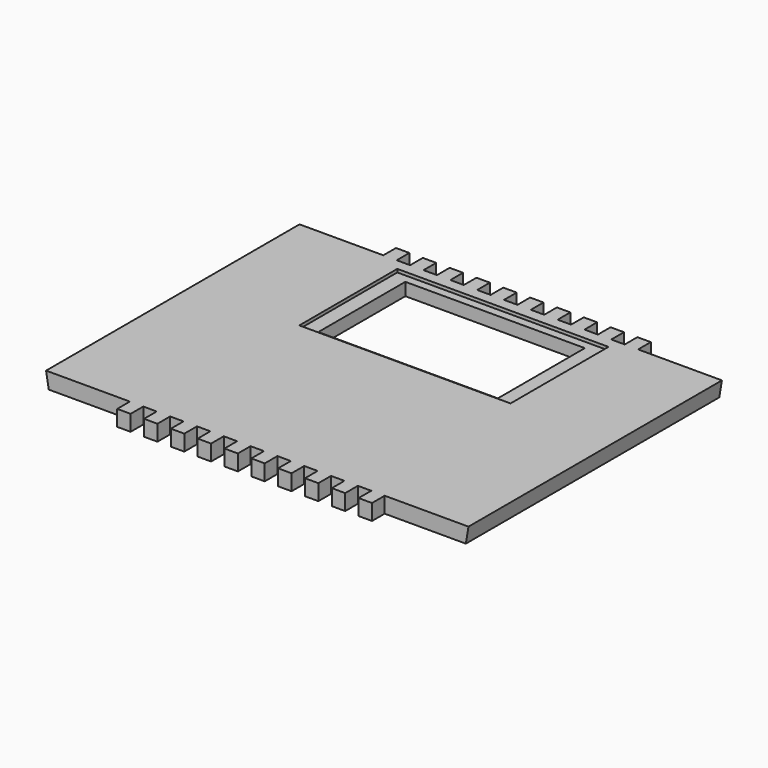
from build123d import *

# Parameters (mm, degrees)
F0_W     = 12.7
F0_H     = 15
F1_DEPTH = 15
F3_DEPTH = 315.001
F5_DEPTH = 315.001
F6_W     = 170
F6_H     = 103
F7_DEPTH = 15
F8_W     = 200
F8_H     = 116
F8_W_2   = 170
F8_H_2   = 103
F9_DEPTH = 3


with BuildPart() as f1:
    # F0 (on Top) → F1 (new body)
    with BuildSketch(Plane.XY):
        Polygon((120.65, -150), (200, -150), (200, 150), (120.65, 150), (107.95, 150), (95.25, 150), (82.55, 150), (69.85, 150), (57.15, 150), (44.45, 150), (31.75, 150), (19.05, 150), (6.35, 150), (0, 150), (-6.35, 150), (-19.05, 150), (-31.75, 150), (-44.45, 150), (-57.15, 150), (-69.85, 150), (-82.55, 150), (-95.25, 150), (-107.95, 150), (-120.65, 150), (-200, 150), (-200, -150), (-120.65, -150), (-107.95, -150), (-95.25, -150), (-82.55, -150), (-69.85, -150), (-57.15, -150), (-44.45, -150), (-31.75, -150), (-19.05, -150), (-6.35, -150), (0, -150), (6.35, -150), (19.05, -150), (31.75, -150), (44.45, -150), (57.15, -150), (69.85, -150), (82.55, -150), (95.25, -150), (107.95, -150), align=None)
        with Locations((-38.1, -157.5)):
            Rectangle(F0_W, F0_H)
        with Locations((114.3, 157.5)):
            Rectangle(F0_W, F0_H)
        with Locations((-114.3, -157.5)):
            Rectangle(F0_W, F0_H)
        with Locations((114.3, -157.5)):
            Rectangle(F0_W, F0_H)
        with Locations((12.7, -157.5)):
            Rectangle(F0_W, F0_H)
        with Locations((63.5, -157.5)):
            Rectangle(F0_W, F0_H)
        with Locations((-63.5, -157.5)):
            Rectangle(F0_W, F0_H)
        with Locations((-63.5, 157.5)):
            Rectangle(F0_W, F0_H)
        with Locations((12.7, 157.5)):
            Rectangle(F0_W, F0_H)
        with Locations((-88.9, 157.5)):
            Rectangle(F0_W, F0_H)
        with Locations((-88.9, -157.5)):
            Rectangle(F0_W, F0_H)
        with Locations((38.1, 157.5)):
            Rectangle(F0_W, F0_H)
        with Locations((88.9, -157.5)):
            Rectangle(F0_W, F0_H)
        with Locations((38.1, -157.5)):
            Rectangle(F0_W, F0_H)
        with Locations((-38.1, 157.5)):
            Rectangle(F0_W, F0_H)
        with Locations((-114.3, 157.5)):
            Rectangle(F0_W, F0_H)
        with Locations((88.9, 157.5)):
            Rectangle(F0_W, F0_H)
        with Locations((63.5, 157.5)):
            Rectangle(F0_W, F0_H)
        with Locations((-12.7, 157.5)):
            Rectangle(F0_W, F0_H)
        with Locations((-12.7, -157.5)):
            Rectangle(F0_W, F0_H)
    extrude(amount=F1_DEPTH)

    # F2 (on face) → F3 (cut, through all)
    with BuildSketch(Plane.XZ.offset(150)):
        Polygon((-200, 0), (-197.500259, 0), (-200, 15), align=None)
    extrude(amount=-F3_DEPTH, mode=Mode.SUBTRACT)

    # F4 (on face) → F5 (cut, through all)
    with BuildSketch(Plane.XZ.offset(150)):
        Polygon((200, 15), (197.505116, 0), (200, 0), align=None)
    extrude(amount=-F5_DEPTH, mode=Mode.SUBTRACT)

    # F6 (on face) → F7 (cut)
    with BuildSketch(Plane.XY.offset(15)):
        with Locations((0, 80)):
            Rectangle(F6_W, F6_H)
    extrude(amount=-F7_DEPTH, mode=Mode.SUBTRACT)

    # F8 (on face) → F9 (cut)
    with BuildSketch(Plane.XY.offset(15)):
        with Locations((1, 81.5)):
            Rectangle(F8_W, F8_H)
        with Locations((0, 80)):
            Rectangle(F8_W_2, F8_H_2, mode=Mode.SUBTRACT)
    extrude(amount=-F9_DEPTH, mode=Mode.SUBTRACT)


solid = f1.part
